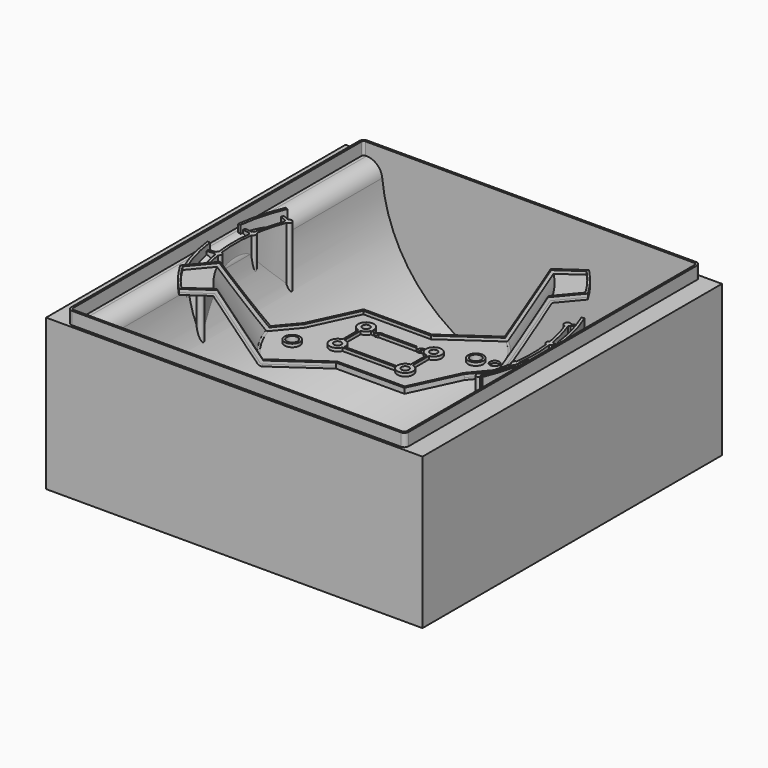
from build123d import *

# Parameters (mm, degrees)
MIRROREDSKETCH_R   = 3.5
MIRROREDSKETCH_R_2 = 5.25
POCKET_DEPTH       = 60.001
PAD003_DEPTH       = 65
SKETCH001_R        = 7.5
SKETCH001_R_2      = 3.5
PAD_DEPTH          = 5
SKETCH002_W        = 2
SKETCH002_H        = 23
SKETCH002_W_2      = 52
SKETCH002_H_2      = 2
PAD001_DEPTH       = 5
SKETCH003_R        = 3.75
POCKET001_DEPTH    = 5
SKETCH008_R        = 4.5
POCKET002_DEPTH    = 5
SKETCH004_R        = 7.25
SKETCH004_R_2      = 5.25
PAD004_DEPTH       = 5
PAD004_DEPTH_BACK  = 8
SKETCH010_W        = 359
SKETCH010_H        = 357
PAD006_DEPTH       = 144
SKETCH011_W        = 141.5
SKETCH011_H        = 348
PAD007_DEPTH       = 12
POCKET003_DEPTH    = 174
PAD008_DEPTH       = 146
PAD009_DEPTH       = 151


with BuildPart() as pcb_mount:
    # Sketch → Revolution (revolve)
    with BuildSketch(Plane.XZ):
        with BuildLine():
            Line((0, 0), (92.5, 0))
            ThreePointArc((92.5, 0), (94.5, 0.535898), (95.964102, 2))
            Line((95.964102, 2), (128.295717, 58))
            Line((128.295717, 58), (153.5, 58))
            Line((153.5, 58), (153.5, 60))
            Line((153.5, 60), (127.141016, 60))
            Line((127.141016, 60), (94.232051, 3))
            ThreePointArc((92.5, 2), (93.5, 2.267949), (94.232051, 3))
            Line((92.5, 2), (0, 2))
            Line((0, 2), (0, 0))
        make_face()
    revolve(axis=Axis((0, 0, 0), (0, 0, 1)))

    # MirroredSketch → Pocket (cut, through all)
    with BuildSketch(Plane.XY):
        with Locations((32.25, 19)):
            Circle(MIRROREDSKETCH_R)
        with Locations((-32.25, 19)):
            Circle(MIRROREDSKETCH_R)
        with Locations((32.25, -15)):
            Circle(MIRROREDSKETCH_R)
        with Locations((-32.25, -15)):
            Circle(MIRROREDSKETCH_R)
        with Locations((62.767507, 30.987741)):
            Circle(MIRROREDSKETCH_R_2)
        with Locations((-62.767507, -30.987741)):
            Circle(MIRROREDSKETCH_R_2)
        with BuildLine():
            Line((58.628655, 71.546704), (13.575292, 40))
            Line((13.575292, 40), (-51.424708, 40))
            Line((-51.424708, 40), (-72.555621, -5.315389))
            Line((-72.555621, -5.315389), (-89.061426, -24.986242))
            Line((-89.061426, -24.986242), (-153.340187, -101.590687))
            ThreePointArc((134.951139, 124.988283), (-113.661984, 144.619619), (-153.340187, -101.590687))
            Line((58.628655, 71.546704), (134.951139, 124.988283))
        make_face()
        with BuildLine():
            Line((-58.628655, -71.546704), (-13.575292, -40))
            Line((-13.575292, -40), (51.424708, -40))
            Line((51.424708, -40), (72.555621, 5.315389))
            Line((72.555621, 5.315389), (89.061426, 24.986242))
            Line((89.061426, 24.986242), (157.868776, 106.987648))
            ThreePointArc((-140.543859, -128.904348), (118.263674, -149.60819), (157.868776, 106.987648))
            Line((-58.628655, -71.546704), (-140.543859, -128.904348))
        make_face()
    extrude(amount=POCKET_DEPTH, mode=Mode.SUBTRACT)

    # Sketch006 → Pad003 (join)
    with BuildSketch(Plane.XY):
        with BuildLine():
            Line((-72.555621, -5.315389), (-132.755871, -77.059254))
            ThreePointArc((-132.755871, -77.059254), (-122.187132, -92.911542), (-109.736013, -107.332462))
            Line((-109.736013, -107.332462), (-13.575292, -40))
            Line((-13.575292, -40), (51.424708, -40))
            Line((51.424708, -40), (72.555621, 5.315389))
            Line((72.555621, 5.315389), (132.755871, 77.059254))
            ThreePointArc((132.755871, 77.059254), (122.187132, 92.911542), (109.736013, 107.332462))
            Line((109.736013, 107.332462), (13.575292, 40))
            Line((13.575292, 40), (-51.424708, 40))
            Line((-51.424708, 40), (-72.555621, -5.315389))
        make_face()
        with BuildLine():
            Line((-130.31695, -77.264109), (-70.854283, -6.399261))
            Line((-70.854283, -6.399261), (-50.150567, 38))
            Line((-50.150567, 38), (14.20589, 38))
            Line((14.20589, 38), (109.48506, 104.715193))
            ThreePointArc((130.31695, 77.264109), (120.684057, 91.583888), (109.48506, 104.715193))
            Line((130.31695, 77.264109), (70.854283, 6.399261))
            Line((70.854283, 6.399261), (50.150567, -38))
            Line((50.150567, -38), (-14.20589, -38))
            Line((-14.20589, -38), (-109.48506, -104.715193))
            ThreePointArc((-130.31695, -77.264109), (-120.684057, -91.583888), (-109.48506, -104.715193))
        make_face(mode=Mode.SUBTRACT)
    extrude(amount=PAD003_DEPTH)

    # Sketch007 → Groove (revolve, cut)
    with BuildSketch(Plane.XZ):
        with BuildLine():
            Line((153.5, 58), (128.295717, 58))
            Line((95.964102, 2), (128.295717, 58))
            ThreePointArc((92.5, 0), (94.5, 0.535898), (95.964102, 2))
            Line((0, 0), (92.5, 0))
            Line((0, -10), (0, 0))
            Line((165.5, -10), (0, -10))
            Line((165.5, 58), (165.5, -10))
            Line((153.5, 58), (165.5, 58))
        make_face()
        Polygon((153.5, 63), (125.408965, 63), (91.92265, 5), (0, 5), (0, 105), (165.5, 105), (165.5, 63), align=None)
    revolve(axis=Axis((0, 0, 0), (0, 0, 1)), mode=Mode.SUBTRACT)

    # Sketch001 → Pad (join)
    with BuildSketch(Plane.XY):
        with Locations((-32.25, 19)):
            Circle(SKETCH001_R)
        with Locations((-32.25, 19)):
            Circle(SKETCH001_R_2, mode=Mode.SUBTRACT)
        with Locations((-32.25, -15)):
            Circle(SKETCH001_R)
        with Locations((-32.25, -15)):
            Circle(SKETCH001_R_2, mode=Mode.SUBTRACT)
        with Locations((32.25, -15)):
            Circle(SKETCH001_R)
        with Locations((32.25, -15)):
            Circle(SKETCH001_R_2, mode=Mode.SUBTRACT)
        with Locations((32.25, 19)):
            Circle(SKETCH001_R)
        with Locations((32.25, 19)):
            Circle(SKETCH001_R_2, mode=Mode.SUBTRACT)
    extrude(amount=PAD_DEPTH)

    # Sketch002 → Pad001 (join)
    with BuildSketch(Plane.XY):
        with Locations((-32.5, 2.5)):
            Rectangle(SKETCH002_W, SKETCH002_H)
        with Locations((0, 17)):
            Rectangle(SKETCH002_W_2, SKETCH002_H_2)
        with Locations((32.5, 2.5)):
            Rectangle(SKETCH002_W, SKETCH002_H)
        with Locations((0, -17)):
            Rectangle(SKETCH002_W_2, SKETCH002_H_2)
    extrude(amount=PAD001_DEPTH)

    # Sketch003 → Pocket001 (cut)
    with BuildSketch(Plane.XY):
        with Locations((-20.3, 19)):
            Circle(SKETCH003_R)
        with Locations((20.3, 19)):
            Circle(SKETCH003_R)
    extrude(amount=POCKET001_DEPTH, mode=Mode.SUBTRACT)

    # Sketch008 → Pocket002 (cut)
    with BuildSketch(Plane.XY):
        with Locations((75.752774, 37.285677)):
            Circle(SKETCH008_R)
    extrude(amount=POCKET002_DEPTH, mode=Mode.SUBTRACT)

    # Sketch004 → Pad004 (join, two sides)
    with BuildSketch(Plane.XY) as pad004_sk:
        with Locations((-62.767507, -30.987741)):
            Circle(SKETCH004_R)
        with Locations((-62.767507, -30.987741)):
            Circle(SKETCH004_R_2, mode=Mode.SUBTRACT)
        with Locations((62.767507, 30.987741)):
            Circle(SKETCH004_R)
        with Locations((62.767507, 30.987741)):
            Circle(SKETCH004_R_2, mode=Mode.SUBTRACT)
    extrude(amount=PAD004_DEPTH)
    extrude(pad004_sk.sketch, amount=-PAD004_DEPTH_BACK)


with BuildPart() as pcb_mount_1:
    # Body placement: moved
    add(pcb_mount.part.moved(Location((0, 0, -45.2))))


with BuildPart() as casing_frame:
    # Sketch010 → Pad006 (new body)
    with BuildSketch(Plane.XY):
        Rectangle(SKETCH010_W, SKETCH010_H)
    extrude(amount=-PAD006_DEPTH)

    # Sketch011 → Groove001 (revolve, cut)
    with BuildSketch(Plane.XY):
        with Locations((-70.75, 0)):
            Rectangle(SKETCH011_W, SKETCH011_H)
    revolve(axis=Axis((0, 0, 0), (0, 1, 0)), mode=Mode.SUBTRACT)

    # Sketch012 → Pad007 (join)
    with BuildSketch(Plane.XY):
        with BuildLine():
            Line((-161, 172), (-161, -172))
            ThreePointArc((-161, -172), (-159.828427, -174.828427), (-157, -176))
            Line((-157, -176), (157, -176))
            ThreePointArc((157, -176), (159.828427, -174.828427), (161, -172))
            Line((161, -172), (161, 172))
            ThreePointArc((161, 172), (159.828427, 174.828427), (157, 176))
            Line((157, 176), (-157, 176))
            ThreePointArc((-157, 176), (-159.828427, 174.828427), (-161, 172))
        make_face()
        with BuildLine():
            Line((-159, 172), (-159, -172))
            ThreePointArc((-159, -172), (-158.414214, -173.414214), (-157, -174))
            Line((-157, -174), (157, -174))
            ThreePointArc((157, -174), (158.414214, -173.414214), (159, -172))
            Line((159, -172), (159, 172))
            ThreePointArc((159, 172), (158.414214, 173.414214), (157, 174))
            Line((157, 174), (-157, 174))
            ThreePointArc((-157, 174), (-158.414214, 173.414214), (-159, 172))
        make_face(mode=Mode.SUBTRACT)
    extrude(amount=PAD007_DEPTH)

    # Sketch013 → Pocket003 (cut, symmetric)
    with BuildSketch(Plane.XZ):
        with BuildLine():
            ThreePointArc((-140.84855, -13.5623), (-145.693994, -3.896724), (-155.779492, 0))
            Line((-155.779492, 0), (-155.779492, 10))
            Line((-155.779492, 10), (-140.84855, 10))
            Line((-140.84855, 10), (-140.84855, -13.5623))
        make_face()
    pocket003 = extrude(amount=POCKET003_DEPTH, both=True, mode=Mode.SUBTRACT)

    # Mirrored002: Pocket003 across Sketch013 V_Axis
    add(pocket003.mirror(Plane(origin=(0, 0, 0), x_dir=(0, -1, 0), z_dir=(1, 0, 0))), mode=Mode.SUBTRACT)

    # Sketch014 → Pad008 (join)
    with BuildSketch(Plane.XY.offset(2)):
        with BuildLine():
            ThreePointArc((-143.126965, 17.96481), (-144.25, 0), (-143.126965, -17.96481))
            ThreePointArc((-143.126965, -17.96481), (-143.917913, -18.693282), (-144.401171, -19.65387))
            Line((-144.401171, -19.65387), (-151.104038, -20.624799))
            Line((-151.104038, -20.624799), (-150.745646, -23.098977))
            Line((-150.745646, -23.098977), (-144.04278, -22.128048))
            ThreePointArc((-144.04278, -22.128048), (-143.306815, -22.912029), (-142.341672, -23.386126))
            ThreePointArc((-142.341672, -23.386126), (-139.405888, -37.068328), (-135.158176, -50.401685))
            ThreePointArc((-135.158176, -50.401685), (-135.760375, -51.292542), (-136.009748, -52.338526))
            Line((-142.309614, -54.825052), (-136.009748, -52.338526))
            Line((-141.391782, -57.150473), (-142.309614, -54.825052))
            Line((-135.091916, -54.663947), (-141.391782, -57.150473))
            ThreePointArc((-135.091916, -54.663947), (-130.267844, -53.707515), (-132.824002, -49.506029))
            ThreePointArc((-139.870912, -23.00414), (-136.989841, -36.425896), (-132.824002, -49.506029))
            ThreePointArc((-139.870912, -23.00414), (-138.553953, -20.06993), (-140.64937, -17.630012))
            ThreePointArc((-140.64937, 17.630012), (-141.75, 0), (-140.64937, -17.630012))
            ThreePointArc((-140.64937, 17.630012), (-138.553953, 20.06993), (-139.870912, 23.00414))
            ThreePointArc((-132.824002, 49.506029), (-136.989841, 36.425896), (-139.870912, 23.00414))
            ThreePointArc((-132.824002, 49.506029), (-130.267844, 53.707515), (-135.091916, 54.663947))
            Line((-135.091916, 54.663947), (-141.391782, 57.150473))
            Line((-141.391782, 57.150473), (-142.309614, 54.825052))
            Line((-142.309614, 54.825052), (-136.009748, 52.338526))
            ThreePointArc((-136.009748, 52.338526), (-135.760375, 51.292542), (-135.158176, 50.401685))
            ThreePointArc((-135.158176, 50.401685), (-139.405888, 37.068328), (-142.341672, 23.386126))
            ThreePointArc((-142.341672, 23.386126), (-143.306815, 22.912029), (-144.04278, 22.128048))
            Line((-144.04278, 22.128048), (-150.745646, 23.098977))
            Line((-150.745646, 23.098977), (-151.104038, 20.624799))
            Line((-151.104038, 20.624799), (-144.401171, 19.65387))
            ThreePointArc((-144.401171, 19.65387), (-143.917913, 18.693282), (-143.126965, 17.96481))
        make_face()
    pad008 = extrude(amount=-PAD008_DEPTH)

    # Sketch015 → Pad009 (join)
    with BuildSketch(Plane.XY.offset(7)):
        with BuildLine():
            ThreePointArc((-140.200749, 60), (-147.321769, 39.402365), (-151.433979, 18))
            Line((-153.916503, 18.295082), (-151.433979, 18))
            ThreePointArc((-142.499122, 60.983607), (-149.73688, 40.048305), (-153.916503, 18.295082))
            Line((-142.499122, 60.983607), (-140.200749, 60))
        make_face()
        with BuildLine():
            ThreePointArc((-151.433979, -18), (-147.321769, -39.402365), (-140.200749, -60))
            Line((-140.200749, -60), (-142.499122, -60.983607))
            ThreePointArc((-153.916503, -18.295082), (-149.73688, -40.048305), (-142.499122, -60.983607))
            Line((-153.916503, -18.295082), (-151.433979, -18))
        make_face()
    pad009 = extrude(amount=-PAD009_DEPTH)

    # Mirrored003: Pad009, Pad008 across Sketch015 V_Axis
    add(pad009.mirror(Plane(origin=(0, 0, 7), x_dir=(0, 0, 1), z_dir=(1, 0, 0))))
    add(pad008.mirror(Plane(origin=(0, 0, 7), x_dir=(0, 0, 1), z_dir=(1, 0, 0))))


solid = Compound([pcb_mount_1.part, casing_frame.part])
